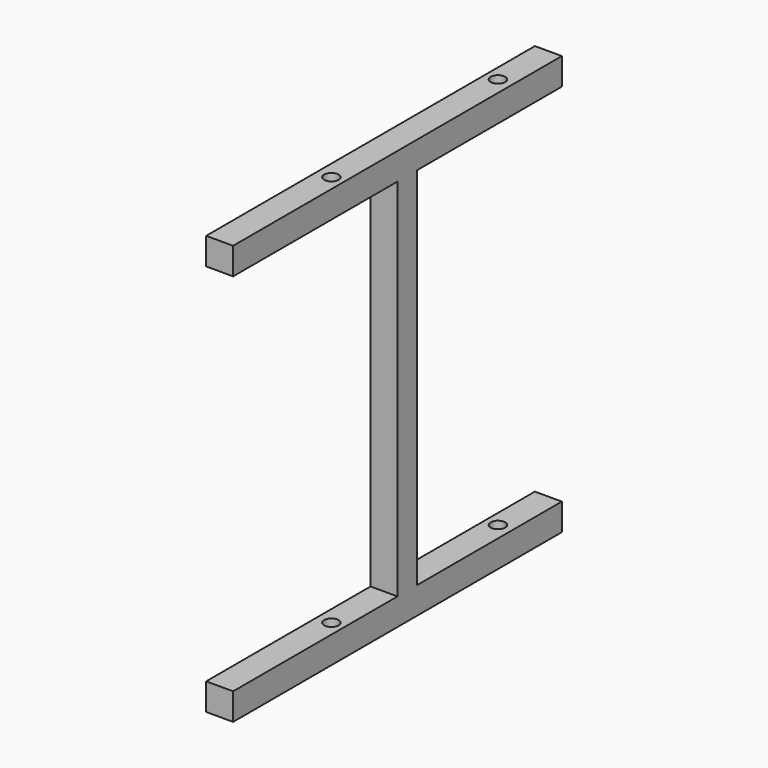
from build123d import *

# Parameters (mm, degrees)
F0_W     = 30
F0_H     = 30
F1_DEPTH = 457.2
F2_R     = 8.052642
F2_R_2   = 8.052679
F3_DEPTH = 30.001
F5_W     = 30
F5_H     = 27.321835
F6_DEPTH = 203.2


with BuildPart() as f1:
    # F0 (on Front) → F1 (new body)
    with BuildSketch(Plane.XZ):
        with Locations((15, 15)):
            Rectangle(F0_W, F0_H)
    extrude(amount=F1_DEPTH)

    # F2 (on face) → F3 (cut, through all)
    with BuildSketch(Plane.XY.offset(30)):
        with Locations((16.058933, -303.081602)):
            Circle(F2_R)
        with Locations((14.143813, -69.052368)):
            Circle(F2_R_2)
    extrude(amount=-F3_DEPTH, mode=Mode.SUBTRACT)

    # F5 (on face) → F6 (join)
    with BuildSketch(Plane.XY.offset(30)):
        with Locations((15, -214.939082)):
            Rectangle(F5_W, F5_H)
    extrude(amount=F6_DEPTH)

    # F7: F1 across plane


with BuildPart() as f1_1:
    add(f1.part)
    add(f1.part.mirror(Plane(origin=(14.996897, -229.902144, 233.2), x_dir=(1, 0, 0), z_dir=(0, 0, 1))))


solid = f1_1.part
